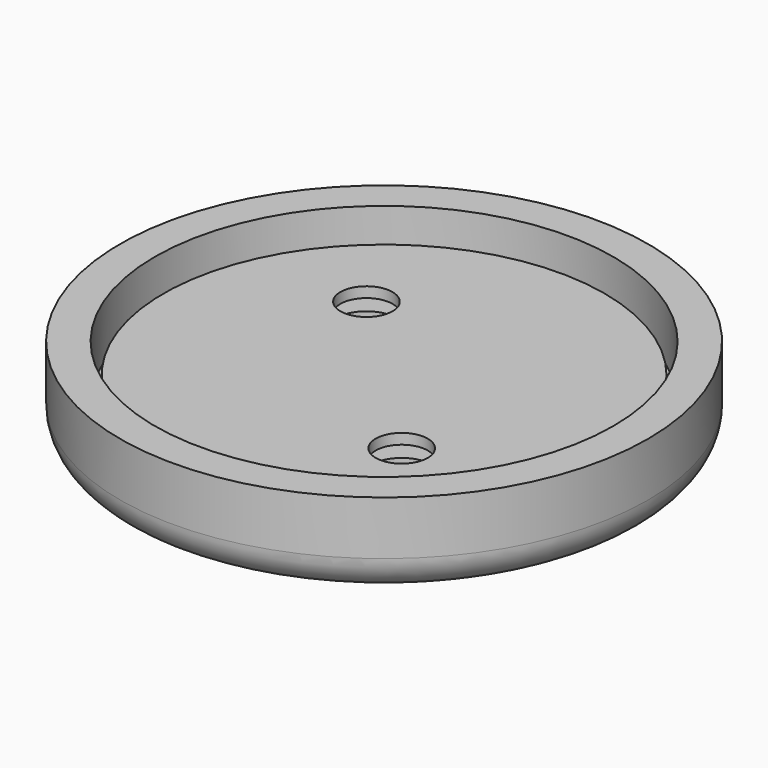
from build123d import *

# Parameters (mm, degrees)
F1_R     = 12.7
F1_R_2   = 1.5
F2_DEPTH = 0.6
F5_R     = 1.75
F6_DEPTH = 1


with BuildPart() as f2:
    # F1 (on Top) → F2 (new body)
    with BuildSketch(Plane.XY):
        Circle(F1_R)
        with Locations((5.08, -5.08)):
            Circle(F1_R_2, mode=Mode.SUBTRACT)
        with Locations((-5.08, 5.08)):
            Circle(F1_R_2, mode=Mode.SUBTRACT)
    extrude(amount=-F2_DEPTH)


with BuildPart() as f4:
    # F3 (on Front) → F4 (revolve)
    with BuildSketch(Plane.XZ):
        with BuildLine():
            Line((13.2, -1.4), (0, -1.4))
            Line((0, -1.4), (0, -3.4))
            Line((0, -3.4), (13.2, -3.4))
            ThreePointArc((13.2, -3.4), (14.614214, -2.814214), (15.2, -1.4))
            Line((15.2, -1.4), (15.2, 1.7))
            Line((15.2, 1.7), (13.2, 1.7))
            Line((13.2, 1.7), (13.2, -1.4))
        make_face()
    revolve(axis=Axis((0, 0, -2.4), (0, 0, -1)))

    # F5 (on face) → F6 (cut)
    with BuildSketch(Plane.XY.offset(-1.4)):
        with Locations((-5.08, 5.08)):
            Circle(F5_R)
        with Locations((5.08, -5.08)):
            Circle(F5_R)
    extrude(amount=-F6_DEPTH, mode=Mode.SUBTRACT)


solid = Compound([f2.part, f4.part])
